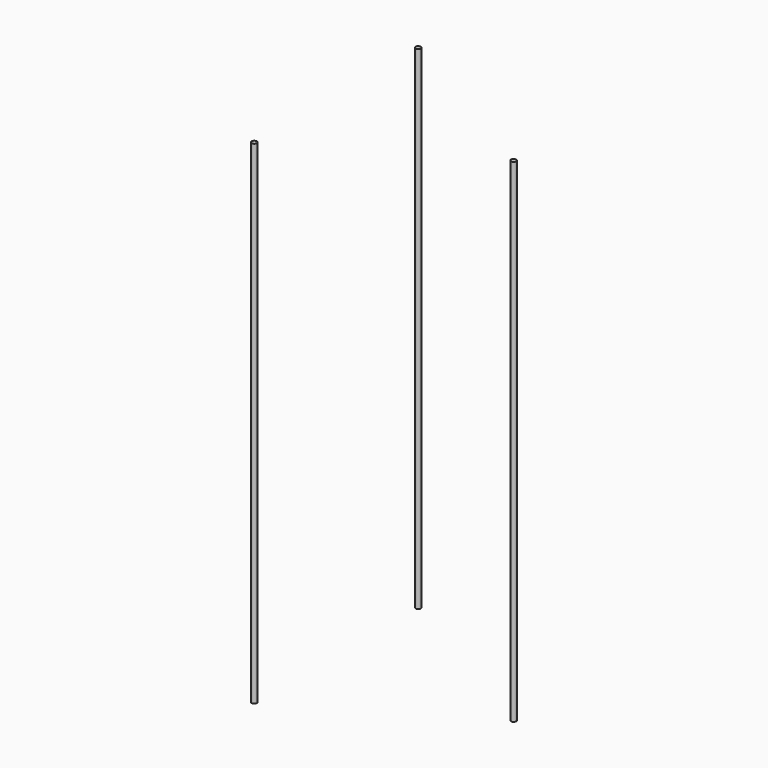
from build123d import *

# Parameters (mm, degrees)
CYLINDER_R     = 4
CYLINDER_DEPTH = 750
ARRAY_COUNT    = 3


with BuildPart() as part:
    # Cylinder → Cylinder (new body)
    with BuildSketch(Plane(origin=(180, 0, 0), x_dir=(1, 0, 0), z_dir=(0, 0, 1))):
        Circle(CYLINDER_R)
    extrude(amount=CYLINDER_DEPTH)

    # Array: part ×3 about axis
    array_axis = Axis((0, 0, 0), (0, 0, 1))


with BuildPart() as part_1:
    add(part.part)
    for i in range(1, ARRAY_COUNT):
        add(part.part.rotate(array_axis, i * 360 / ARRAY_COUNT))


solid = part_1.part
